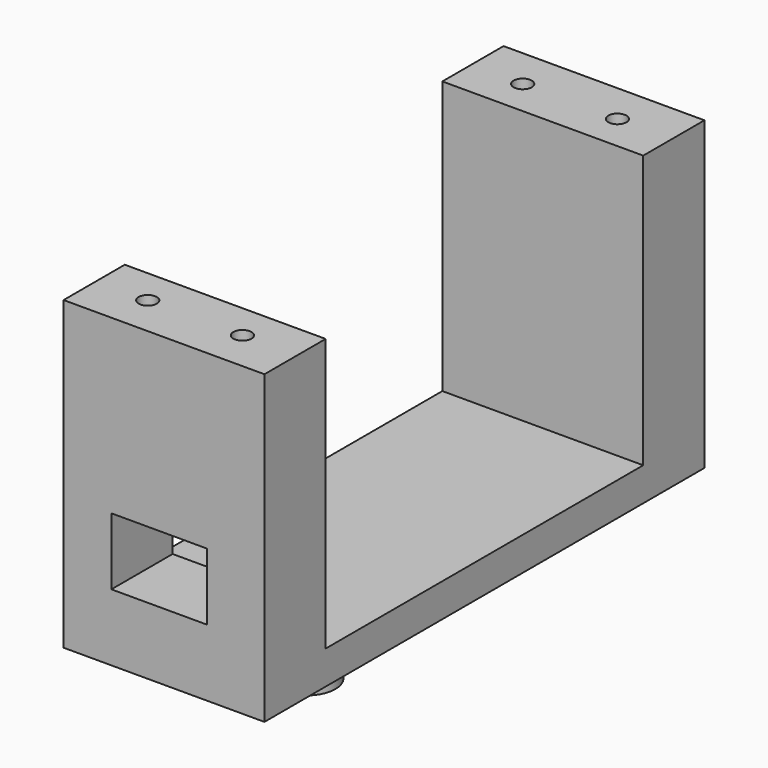
from build123d import *

# Parameters (mm, degrees)
CYLINDER015_R     = 0.95
CYLINDER015_DEPTH = 10
CYLINDER016_R     = 0.95
CYLINDER016_DEPTH = 10
CYLINDER013_R     = 0.95
CYLINDER013_DEPTH = 10
CYLINDER014_R     = 0.95
CYLINDER014_DEPTH = 10
BOX003_W          = 10
BOX003_H          = 10
BOX003_DEPTH      = 7
PAD003_DEPTH      = 21
CYLINDER012_R     = 3
CYLINDER012_DEPTH = 10


with BuildPart() as cylinder015:
    # Cylinder015 → Cylinder015 (new body)
    with BuildSketch(Plane(origin=(9.9, 0, 0), x_dir=(1, 0, 0), z_dir=(0, 0, 1))):
        Circle(CYLINDER015_R)
    extrude(amount=CYLINDER015_DEPTH)


with BuildPart() as tornillos007:
    # Cylinder016 → Cylinder016 (new body)
    with BuildSketch(Plane.XY):
        Circle(CYLINDER016_R)
    extrude(amount=CYLINDER016_DEPTH)

    # Fusion011: union Cylinder015
    add(cylinder015.part)


with BuildPart() as tornillos007_1:
    # Fusion011 placement: moved
    add(tornillos007.part.moved(Location((5, -24.5, 22))))


with BuildPart() as cylinder013:
    # Cylinder013 → Cylinder013 (new body)
    with BuildSketch(Plane(origin=(9.9, 0, 0), x_dir=(1, 0, 0), z_dir=(0, 0, 1))):
        Circle(CYLINDER013_R)
    extrude(amount=CYLINDER013_DEPTH)


with BuildPart() as fusion012:
    # Cylinder014 → Cylinder014 (new body)
    with BuildSketch(Plane.XY):
        Circle(CYLINDER014_R)
    extrude(amount=CYLINDER014_DEPTH)

    # Fusion010: union Cylinder013
    add(cylinder013.part)


with BuildPart() as fusion012_1:
    # Fusion010 placement: moved
    add(fusion012.part.moved(Location((5, 24.5, 22))))

    # Fusion012: union Tornillos007
    add(tornillos007_1.part)


with BuildPart() as fusion012_2:
    # Fusion012 placement: moved
    add(fusion012_1.part.moved(Location((0.4, 0, 0))))


with BuildPart() as cube003:
    # Box003 → Box003 (new body)
    with BuildSketch(Plane(origin=(5, -29, 7), x_dir=(1, 0, 0), z_dir=(0, 0, 1))):
        with Locations((5, 5)):
            Rectangle(BOX003_W, BOX003_H)
    extrude(amount=BOX003_DEPTH)


with BuildPart() as holder004:
    # Sketch003 → Pad003 (new body)
    with BuildSketch(Plane.YZ):
        Polygon((-28.75, 32), (-28.75, 0), (28.75, 0), (28.75, 32), (20.75, 32), (20.75, 3.5), (-20.75, 3.5), (-20.75, 32), align=None)
    extrude(amount=PAD003_DEPTH)

    # Cut006: cut Cube003
    add(cube003.part, mode=Mode.SUBTRACT)

    # Cut007: cut Fusion012
    add(fusion012_2.part, mode=Mode.SUBTRACT)


with BuildPart() as obj1:
    # Cylinder012 → Cylinder012 (new body)
    with BuildSketch(Plane(origin=(10.5, -10.1, -7), x_dir=(1, 0, 0), z_dir=(0, 0, 1))):
        Circle(CYLINDER012_R)
    extrude(amount=CYLINDER012_DEPTH)

    # Fusion013: union Holder004
    add(holder004.part)


solid = obj1.part
